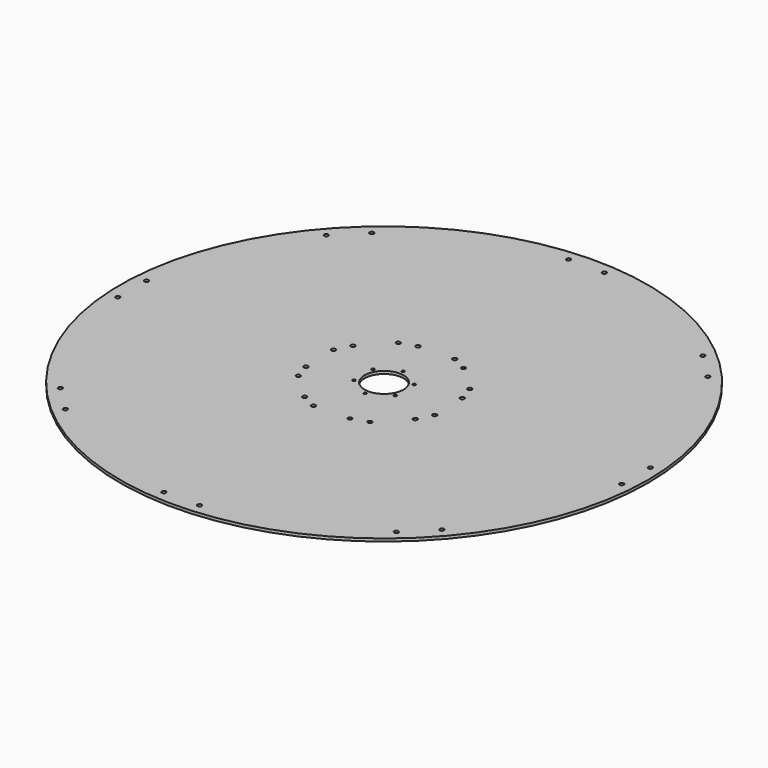
from build123d import *

# Parameters (mm, degrees)
F0_R     = 609.6
F0_R_2   = 4.826
F0_R_3   = 3.175
F0_R_4   = 44.9961
F1_DEPTH = 6.35


with BuildPart() as f1:
    # F0 (on Top) → F1 (new body)
    with BuildSketch(Plane.XY):
        Circle(F0_R)
        with Locations((-383.730187, -440.500605)):
            Circle(F0_R_2, mode=Mode.SUBTRACT)
        with Locations((-441.988335, -382.015644)):
            Circle(F0_R_2, mode=Mode.SUBTRACT)
        with Locations((-42.407097, -582.658801)):
            Circle(F0_R_2, mode=Mode.SUBTRACT)
        with Locations((-582.819183, -40.142748)):
            Circle(F0_R_2, mode=Mode.SUBTRACT)
        with Locations((-76.57454, -133.362918)):
            Circle(F0_R_2, mode=Mode.SUBTRACT)
        with Locations((-136.75852, -76.588043)):
            Circle(F0_R_2, mode=Mode.SUBTRACT)
        with Locations((-42.546952, -150.858801)):
            Circle(F0_R_2, mode=Mode.SUBTRACT)
        with Locations((-148.4482, -40.155448)):
            Circle(F0_R_2, mode=Mode.SUBTRACT)
        with Locations((-47.623603, -27.4955)):
            Circle(F0_R_3, mode=Mode.SUBTRACT)
        with Locations((40.142748, -582.819183)):
            Circle(F0_R_2, mode=Mode.SUBTRACT)
        with Locations((382.015644, -441.988335)):
            Circle(F0_R_2, mode=Mode.SUBTRACT)
        with Locations((440.500605, -383.730187)):
            Circle(F0_R_2, mode=Mode.SUBTRACT)
        with Locations((40.155448, -148.4482)):
            Circle(F0_R_2, mode=Mode.SUBTRACT)
        with Locations((76.588043, -136.75852)):
            Circle(F0_R_2, mode=Mode.SUBTRACT)
        with Locations((133.362918, -76.57454)):
            Circle(F0_R_2, mode=Mode.SUBTRACT)
        with Locations((0, -54.991)):
            Circle(F0_R_3, mode=Mode.SUBTRACT)
        with Locations((47.623603, -27.4955)):
            Circle(F0_R_3, mode=Mode.SUBTRACT)
        with Locations((150.858801, -42.546952)):
            Circle(F0_R_2, mode=Mode.SUBTRACT)
        with Locations((582.658801, -42.407097)):
            Circle(F0_R_2, mode=Mode.SUBTRACT)
        with Locations((-582.658801, 42.407097)):
            Circle(F0_R_2, mode=Mode.SUBTRACT)
        with Locations((-150.858801, 42.546952)):
            Circle(F0_R_2, mode=Mode.SUBTRACT)
        with Locations((-47.623603, 27.4955)):
            Circle(F0_R_3, mode=Mode.SUBTRACT)
        with Locations((-133.362918, 76.57454)):
            Circle(F0_R_2, mode=Mode.SUBTRACT)
        with Locations((-76.588043, 136.75852)):
            Circle(F0_R_2, mode=Mode.SUBTRACT)
        with Locations((-40.155448, 148.4482)):
            Circle(F0_R_2, mode=Mode.SUBTRACT)
        with Locations((-440.500605, 383.730187)):
            Circle(F0_R_2, mode=Mode.SUBTRACT)
        with Locations((-382.015644, 441.988335)):
            Circle(F0_R_2, mode=Mode.SUBTRACT)
        with Locations((-40.142748, 582.819183)):
            Circle(F0_R_2, mode=Mode.SUBTRACT)
        Circle(F0_R_4, mode=Mode.SUBTRACT)
        with Locations((47.623603, 27.4955)):
            Circle(F0_R_3, mode=Mode.SUBTRACT)
        with Locations((0, 54.991)):
            Circle(F0_R_3, mode=Mode.SUBTRACT)
        with Locations((148.4482, 40.155448)):
            Circle(F0_R_2, mode=Mode.SUBTRACT)
        with Locations((42.546952, 150.858801)):
            Circle(F0_R_2, mode=Mode.SUBTRACT)
        with Locations((136.75852, 76.588043)):
            Circle(F0_R_2, mode=Mode.SUBTRACT)
        with Locations((76.57454, 133.362918)):
            Circle(F0_R_2, mode=Mode.SUBTRACT)
        with Locations((582.819183, 40.142748)):
            Circle(F0_R_2, mode=Mode.SUBTRACT)
        with Locations((42.407097, 582.658801)):
            Circle(F0_R_2, mode=Mode.SUBTRACT)
        with Locations((441.988335, 382.015644)):
            Circle(F0_R_2, mode=Mode.SUBTRACT)
        with Locations((383.730187, 440.500605)):
            Circle(F0_R_2, mode=Mode.SUBTRACT)
    extrude(amount=F1_DEPTH)


solid = f1.part
